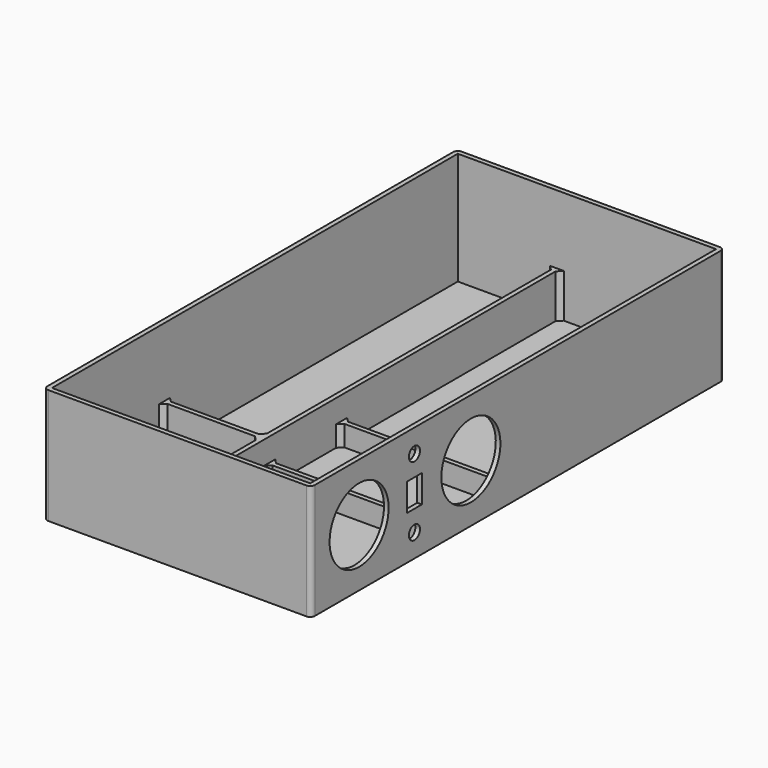
from build123d import *

# Parameters (mm, degrees)
CYLINDER005_R           = 1.5
CYLINDER005_DEPTH       = 20
CYLINDER005_PITCH_ANGLE = 90
BOX005_W                = 10
BOX005_H                = 4
BOX005_DEPTH            = 6
CYLINDER002_R           = 8
CYLINDER002_DEPTH       = 6
CYLINDER002_PITCH_ANGLE = 90
CYLINDER001_R           = 8
CYLINDER001_DEPTH       = 6
CYLINDER001_PITCH_ANGLE = 90
CYLINDER_R              = 3.5
CYLINDER_DEPTH          = 50
CYLINDER_ROLL_ANGLE     = 90
CYLINDER006_R           = 1.5
CYLINDER006_DEPTH       = 20
CYLINDER006_PITCH_ANGLE = 90
BOX003_W                = 35.5
BOX003_H                = 1
BOX003_DEPTH            = 5
BOX004_W                = 35.5
BOX004_H                = 1
BOX004_DEPTH            = 5
BOX006_W                = 22
BOX006_H                = 1
BOX006_DEPTH            = 10
BOX002_W                = 1
BOX002_H                = 112
BOX002_DEPTH            = 10
BOX_W                   = 56
BOX_H                   = 110
BOX_DEPTH               = 25
BOX001_W                = 58
BOX001_H                = 112
BOX001_DEPTH            = 25
CHAMFER_SIZE            = 1
FILLET_R                = 1


with BuildPart() as cylinder005:
    # Cylinder005 → Cylinder005 (new body)
    with BuildSketch(Plane.XY):
        Circle(CYLINDER005_R)
    extrude(amount=CYLINDER005_DEPTH)


with BuildPart() as cylinder005_1:
    # Cylinder005 pitch: moved
    add(cylinder005.part.rotate(Axis((0, 0, 0), (0, 1, 0)), CYLINDER005_PITCH_ANGLE))


with BuildPart() as cylinder005_2:
    # Cylinder005 placement: moved
    add(cylinder005_1.part.moved(Location((19.5, -28, -7.5))))


with BuildPart() as obj1:
    # Box005 → Box005 (new body)
    with BuildSketch(Plane(origin=(24, -30, -3), x_dir=(1, 0, 0), z_dir=(0, 0, 1))):
        with Locations((5, 2)):
            Rectangle(BOX005_W, BOX005_H)
    extrude(amount=BOX005_DEPTH)


with BuildPart() as obj2:
    # Cylinder002 → Cylinder002 (new body)
    with BuildSketch(Plane.XY):
        Circle(CYLINDER002_R)
    extrude(amount=CYLINDER002_DEPTH)


with BuildPart() as obj2_1:
    # Cylinder002 pitch: moved
    add(obj2.part.rotate(Axis((0, 0, 0), (0, 1, 0)), CYLINDER002_PITCH_ANGLE))


with BuildPart() as obj2_2:
    # Cylinder002 placement: moved
    add(obj2_1.part.moved(Location((25.5, -43, 0))))


with BuildPart() as obj3:
    # Cylinder001 → Cylinder001 (new body)
    with BuildSketch(Plane.XY):
        Circle(CYLINDER001_R)
    extrude(amount=CYLINDER001_DEPTH)


with BuildPart() as obj3_1:
    # Cylinder001 pitch: moved
    add(obj3.part.rotate(Axis((0, 0, 0), (0, 1, 0)), CYLINDER001_PITCH_ANGLE))


with BuildPart() as obj3_2:
    # Cylinder001 placement: moved
    add(obj3_1.part.moved(Location((25.5, -12.7, 0))))


with BuildPart() as antenna_hole:
    # Cylinder → Cylinder (new body)
    with BuildSketch(Plane.XY):
        Circle(CYLINDER_R)
    extrude(amount=CYLINDER_DEPTH)


with BuildPart() as antenna_hole_1:
    # Cylinder roll: moved
    add(antenna_hole.part.rotate(Axis((0, 0, 0), (1, 0, 0)), CYLINDER_ROLL_ANGLE))


with BuildPart() as antenna_hole_2:
    # Cylinder placement: moved
    add(antenna_hole_1.part.moved(Location((23, 86.9, -7.5))))


with BuildPart() as obj4:
    # Cylinder006 → Cylinder006 (new body)
    with BuildSketch(Plane.XY):
        Circle(CYLINDER006_R)
    extrude(amount=CYLINDER006_DEPTH)


with BuildPart() as obj4_1:
    # Cylinder006 pitch: moved
    add(obj4.part.rotate(Axis((0, 0, 0), (0, 1, 0)), CYLINDER006_PITCH_ANGLE))


with BuildPart() as obj4_2:
    # Cylinder006 placement: moved
    add(obj4_1.part.moved(Location((19.5, -28, 7.5))))

    # Fusion001: union Cylinder005, obj1, obj2, obj3, antenna_hole
    add(cylinder005_2.part)
    add(obj1.part)
    add(obj2_2.part)
    add(obj3_2.part)
    add(antenna_hole_2.part)


with BuildPart() as obj5:
    # Box003 → Box003 (new body)
    with BuildSketch(Plane(origin=(-6.7, -4.5, -12.4), x_dir=(1, 0, 0), z_dir=(0, 0, 1))):
        with Locations((17.75, 0.5)):
            Rectangle(BOX003_W, BOX003_H)
    extrude(amount=BOX003_DEPTH)


with BuildPart() as obj6:
    # Box004 → Box004 (new body)
    with BuildSketch(Plane(origin=(-6.7, -24, -12.4), x_dir=(1, 0, 0), z_dir=(0, 0, 1))):
        with Locations((17.75, 0.5)):
            Rectangle(BOX004_W, BOX004_H)
    extrude(amount=BOX004_DEPTH)


with BuildPart() as obj7:
    # Box006 → Box006 (new body)
    with BuildSketch(Plane(origin=(-28, -25, -12.4), x_dir=(1, 0, 0), z_dir=(0, 0, 1))):
        with Locations((11, 0.5)):
            Rectangle(BOX006_W, BOX006_H)
    extrude(amount=BOX006_DEPTH)


with BuildPart() as obj8:
    # Box002 → Box002 (new body)
    with BuildSketch(Plane(origin=(-7, -56, -12.4), x_dir=(1, 0, 0), z_dir=(0, 0, 1))):
        with Locations((0.5, 56)):
            Rectangle(BOX002_W, BOX002_H)
    extrude(amount=BOX002_DEPTH)

    # Fusion: union obj5, obj6, obj7
    add(obj5.part)
    add(obj6.part)
    add(obj7.part)


with BuildPart() as cubo_interior:
    # Box → Box (new body)
    with BuildSketch(Plane(origin=(-28, -55, -11.9), x_dir=(1, 0, 0), z_dir=(0, 0, 1))):
        with Locations((28, 55)):
            Rectangle(BOX_W, BOX_H)
    extrude(amount=BOX_DEPTH)


with BuildPart() as obj9:
    # Box001 → Box001 (new body)
    with BuildSketch(Plane(origin=(-29, -56, -12.5), x_dir=(1, 0, 0), z_dir=(0, 0, 1))):
        with Locations((29, 56)):
            Rectangle(BOX001_W, BOX001_H)
    extrude(amount=BOX001_DEPTH)

    # Cut: cut Cubo_interior
    add(cubo_interior.part, mode=Mode.SUBTRACT)

    # Fusion002: union obj8
    add(obj8.part)

    # Cut001: cut obj4
    add(obj4_2.part, mode=Mode.SUBTRACT)

    # Chamfer
    chamfer_edges = [obj9.edges().sort_by_distance(p)[0] for p in [
        (-7, -55, -7.15),
        (-6, -55, -7.15),
        (28, -24, -9.65),
        (28, -23, -9.65),
        (28, -3.5, -9.65),
        (28, -4.5, -9.65),
        (-6, 55, -7.15),
        (-7, 55, -7.15),
        (-28, -24, -7.15),
        (-28, -25, -7.15),
        (-7, -25, -7.15),
        (-6, -3.5, -9.65),
        (-6, -4.5, -9.65),
        (-6, -23, -9.65),
        (-6, -24, -9.65),
        (-7, -24, -7.15),
    ]]
    chamfer(chamfer_edges, length=CHAMFER_SIZE)

    # Fillet
    fillet_edges = [obj9.edges().sort_by_distance(p)[0] for p in [
        (-29, -56, 0),
        (-29, 56, 0),
        (29, 56, 0),
        (29, -56, 0),
    ]]
    fillet(fillet_edges, radius=FILLET_R)


solid = obj9.part
